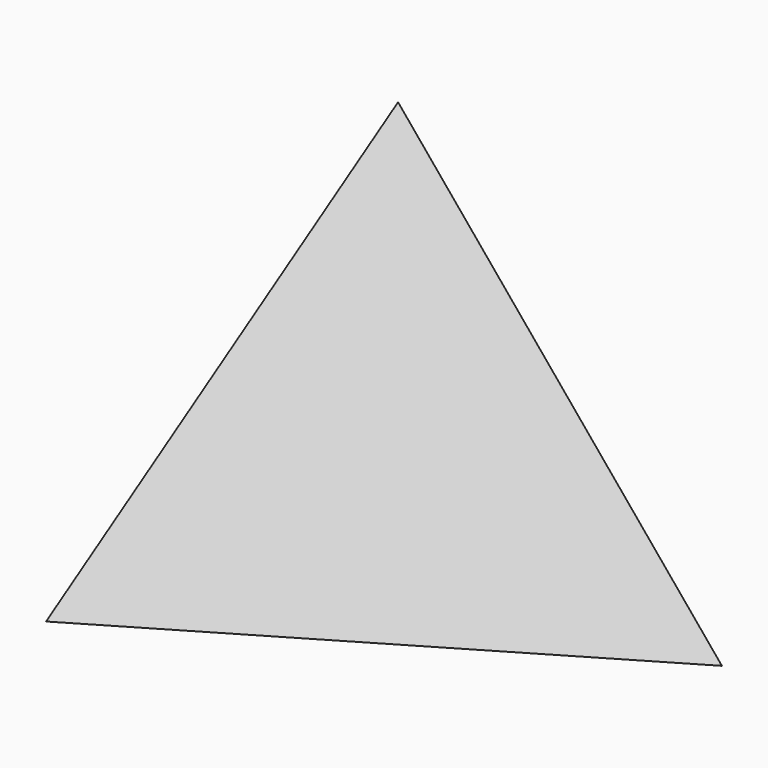
from build123d import *


with BuildPart() as f3:
    # F0 (on Top) → F3 section 0
    with BuildSketch(Plane.XY, mode=Mode.PRIVATE) as f3_s0:
        Polygon((76.107201, 0.756424), (-38.708683, 65.532558), (-37.398518, -66.288982), align=None)
    loft([f3_s0.sketch, Vertex(0, -4.22281, 100)])


solid = f3.part
